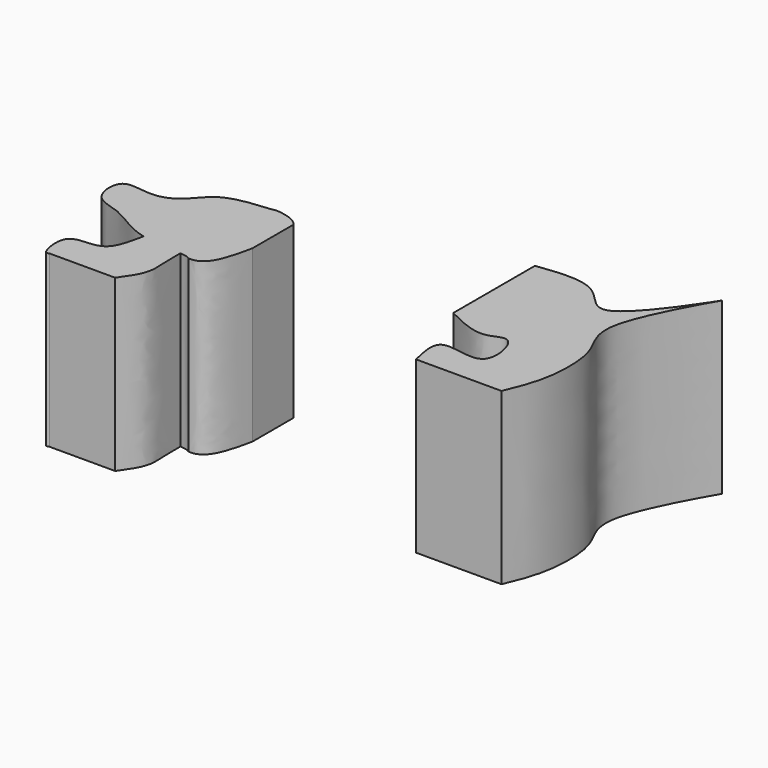
from build123d import *

# Parameters (mm, degrees)
F2_DEPTH = 30
F3_DEPTH = 30


with BuildPart() as f2:
    # F1 (on Top) → F2 (new body)
    with BuildSketch(Plane.XY):
        with BuildLine():
            add(Edge.make_bspline(
                [(37.0076671243, 9.9539892003), (37.9175886164, 12.1146848995), (39.8763481432, 16.7659469284), (39.9590176124, 27.6504573191), (33.7580814145, 33.3979621242), (50.0699459042, 60.0701179371), (33.095915406, 32.6573904435), (28.4187519932, 43.3267933517), (21.2960166058, 42.4535748911), (17.296012491, 41.9631906152)],
                knots=[0, 0, 0, 0, 0.1205072096, 0.2594120998, 0.3871668949, 0.5666153744, 0.742873059, 0.8556019891, 1, 1, 1, 1], degree=3))
            Line((17.296012491, 41.9631906152), (17.296012491, 23.9631906152))
            add(Edge.make_bspline(
                [(17.296012491, 23.9631906152), (20.0122736858, 22.6112520056), (24.5450069429, 20.3552181937), (28.9034998463, 24.3313131247), (31.432242702, 12.8126568368), (20.0761697061, 17.9012629525), (21.3356483018, 12.5137170103), (21.9340510666, 9.9539892003)],
                knots=[0, 0, 0, 0, 0.229295212, 0.3826340542, 0.5895919236, 0.8050071446, 1, 1, 1, 1], degree=3))
            Line((21.9340510666, 9.9539892003), (37.0076671243, 9.9539892003))
        make_face()
    extrude(amount=F2_DEPTH)


with BuildPart() as f3:
    # F0 (on Top) → F3 (new body)
    with BuildSketch(Plane.XY):
        with BuildLine():
            add(Edge.make_bspline(
                [(-21.5475466102, 32.4662588537), (-22.2888866108, 32.2349192702), (-24.2464417713, 30.8823069643), (-24.6953554051, 26.1124563828), (-26.1362004522, 21.2231436019), (-26.5405540801, 16.6927466993), (-24.1409904143, 14.8783482321), (-23.1600351959, 14.4289317055)],
                knots=[0.1564868276, 0.1564868276, 0.1564868276, 0.1564868276, 0.2344760984, 0.335948607, 0.4450906712, 0.5469342906, 0.6115797149, 0.6115797149, 0.6115797149, 0.6115797149], degree=3))
            add(Edge.make_bspline(
                [(-21.5475466102, 32.4662588537), (-24.5336247449, 32.2034363132), (-29.8807755924, 31.7328495951), (-32.7791935338, 26.8382250868), (-37.3226405867, 25.0720223983), (-43.5244226997, 27.1014139523), (-42.9806296382, 19.6416894129), (-37.1745272751, 19.3075990242), (-33.4680644468, 15.9317694322), (-30.2438661456, 15.1620247082)],
                knots=[0, 0, 0, 0, 0.1357639755, 0.2432070338, 0.3466507203, 0.4515044556, 0.5542432293, 0.6600878203, 0.7978404564, 0.7978404564, 0.7978404564, 0.7978404564], degree=3))
            add(Edge.make_bspline(
                [(-30.2438661456, 15.1620247082), (-27.9366372323, 14.6111971482), (-25.051670431, 14.6437643942), (-23.1600351959, 14.4289317055)],
                knots=[0.7978404564, 0.7978404564, 0.7978404564, 0.7978404564, 0.896415927, 0.896415927, 0.896415927, 0.896415927], degree=3))
        make_face()
        with BuildLine():
            Line((-16.3297560066, 21.7546023577), (-16.3297560066, 30.7546023577))
            add(Edge.make_bspline(
                [(-16.3297560066, 30.7546023577), (-17.0902502413, 31.9353296109), (-19.6208639345, 32.5232364267), (-20.9237265297, 32.6609256429), (-21.5475466102, 32.4662588537)],
                knots=[0, 0, 0, 0, 0.0908607004, 0.1564868276, 0.1564868276, 0.1564868276, 0.1564868276], degree=3))
            add(Edge.make_bspline(
                [(-21.5475466102, 32.4662588537), (-22.2888866108, 32.2349192702), (-24.2464417713, 30.8823069643), (-24.6953554051, 26.1124563828), (-26.1362004522, 21.2231436019), (-26.5405540801, 16.6927466993), (-24.1409904143, 14.8783482321), (-23.1600351959, 14.4289317055)],
                knots=[0.1564868276, 0.1564868276, 0.1564868276, 0.1564868276, 0.2344760984, 0.335948607, 0.4450906712, 0.5469342906, 0.6115797149, 0.6115797149, 0.6115797149, 0.6115797149], degree=3))
            add(Edge.make_bspline(
                [(-23.1600351959, 14.4289317055), (-22.3100546935, 14.3323995659), (-21.660630983, 14.1859165953), (-21.3542953134, 13.9141110703)],
                knots=[0.896415927, 0.896415927, 0.896415927, 0.896415927, 0.9407094707, 0.9407094707, 0.9407094707, 0.9407094707], degree=3))
            add(Edge.make_bspline(
                [(-21.3542953134, 13.9141110703), (-20.2182134486, 13.805548486), (-17.9950406075, 14.8391499606), (-16.904685637, 18.8471224035), (-16.3297560066, 21.7546023577)],
                knots=[0.651841452, 0.651841452, 0.651841452, 0.651841452, 0.7328347102, 0.8583760794, 0.8583760794, 0.8583760794, 0.8583760794], degree=3))
        make_face()
        with BuildLine():
            add(Edge.make_bspline(
                [(-25.6058294326, 3.0920247082), (-24.641064362, 4.4518383968), (-22.8433790374, 6.9856336043), (-23.1397111625, 10.6366070039), (-23.1531629745, 13.1466225074), (-23.1600351959, 14.4289317055)],
                knots=[0, 0, 0, 0, 0.3616535212, 0.673883464, 1, 1, 1, 1], degree=3))
            add(Edge.make_bspline(
                [(-30.2438661456, 15.1620247082), (-27.9366372323, 14.6111971482), (-25.051670431, 14.6437643942), (-23.1600351959, 14.4289317055)],
                knots=[0.7978404564, 0.7978404564, 0.7978404564, 0.7978404564, 0.896415927, 0.896415927, 0.896415927, 0.896415927], degree=3))
            add(Edge.make_bspline(
                [(-30.2438661456, 15.1620247082), (-30.6705414096, 13.1393488274), (-31.4122142101, 9.6234110375), (-34.5508232338, 8.6946216226), (-39.3350656426, 8.9617073518), (-38.1370566686, 2.6331286133), (-37.3946041252, 2.9970804672), (-37.2009202838, 3.0920247082)],
                knots=[0, 0, 0, 0, 0.2619042731, 0.4552578789, 0.6710600617, 0.9141893291, 1, 1, 1, 1], degree=3))
            Line((-37.2009202838, 3.0920247082), (-25.6058294326, 3.0920247082))
        make_face()
    extrude(amount=F3_DEPTH)


solid = Compound([f2.part, f3.part])
